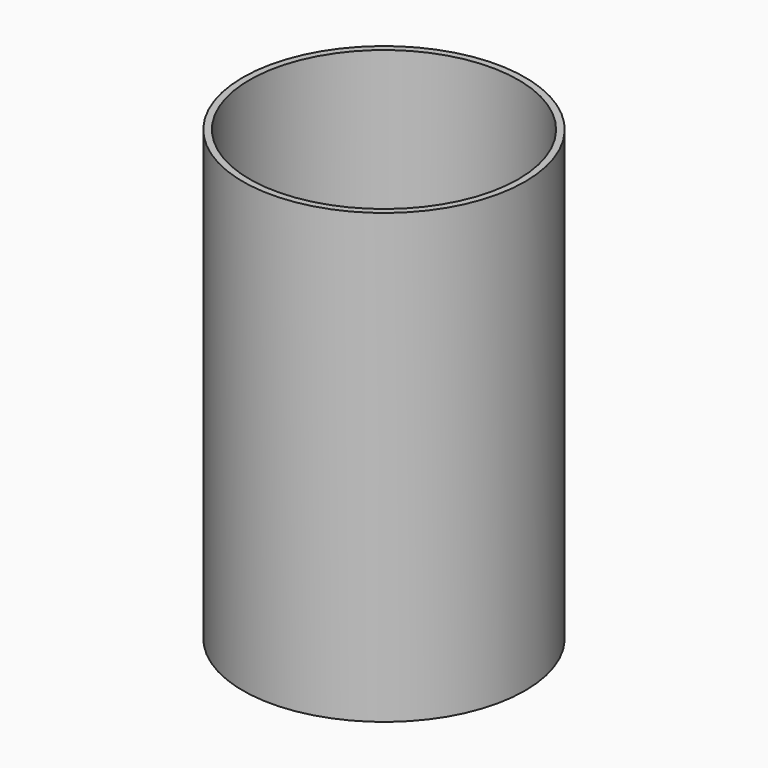
from build123d import *

# Parameters (mm, degrees)
SKETCH_R   = 31.5
SKETCH_R_2 = 30
PAD_DEPTH  = 100


with BuildPart() as part:
    # Sketch → Pad (new body)
    with BuildSketch(Plane.XY):
        Circle(SKETCH_R)
        Circle(SKETCH_R_2, mode=Mode.SUBTRACT)
    extrude(amount=PAD_DEPTH)


solid = part.part
